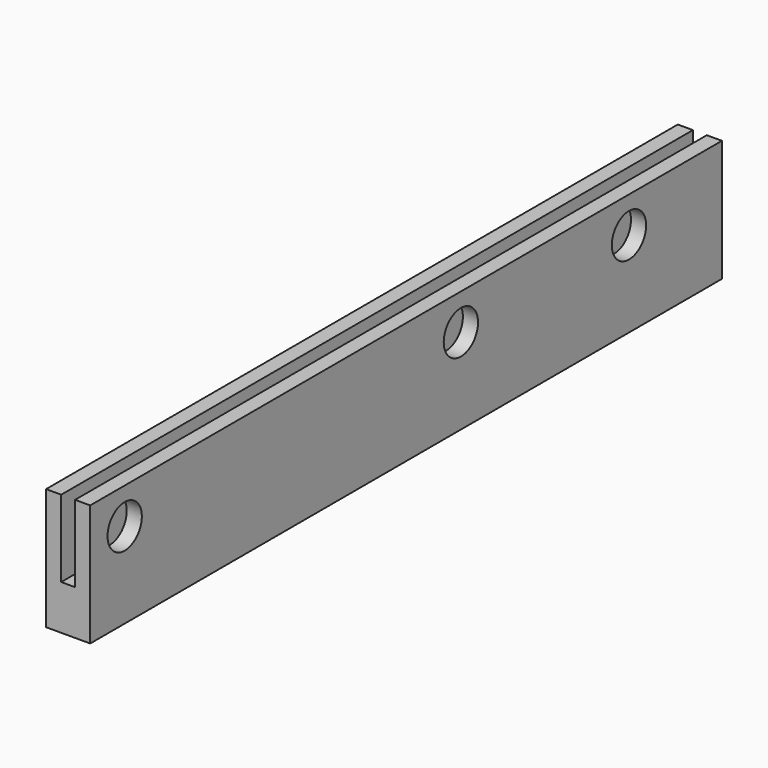
from build123d import *

# Parameters (mm, degrees)
F1_DEPTH = 3.5
F2_W     = 0.55
F2_H     = 62.6362580806
F3_DEPTH = 6.1
F4_D     = 3.4


with BuildPart() as f1:
    # F0 (on Right) → F1 (new body)
    with BuildSketch(Plane.YZ):
        Polygon((25.8831996471, 2.85), (-36.7530584335, 2.85), (-36.7530584335, -6.7950769342), (25.8831996471, -6.7950769342), (25.8831996471, 0), align=None)
    extrude(amount=F1_DEPTH)

    # F2 (on face) → F3 (cut)
    with BuildSketch(Plane.XY.offset(2.85)):
        with Locations((1.475, -5.4349293932)):
            Rectangle(F2_W, F2_H)
        with Locations((2.025, -5.4349293932)):
            Rectangle(F2_W, F2_H)
    extrude(amount=-F3_DEPTH, mode=Mode.SUBTRACT)

    # F4 (through all)
    with Locations(Plane(origin=(0, 0, 0), x_dir=(0, 1, 0), z_dir=(-1, 0, 0))):
        with Locations((16.6665, 0), (-33.3333, 0), (0, 0)):
            Hole(F4_D / 2)


solid = f1.part
